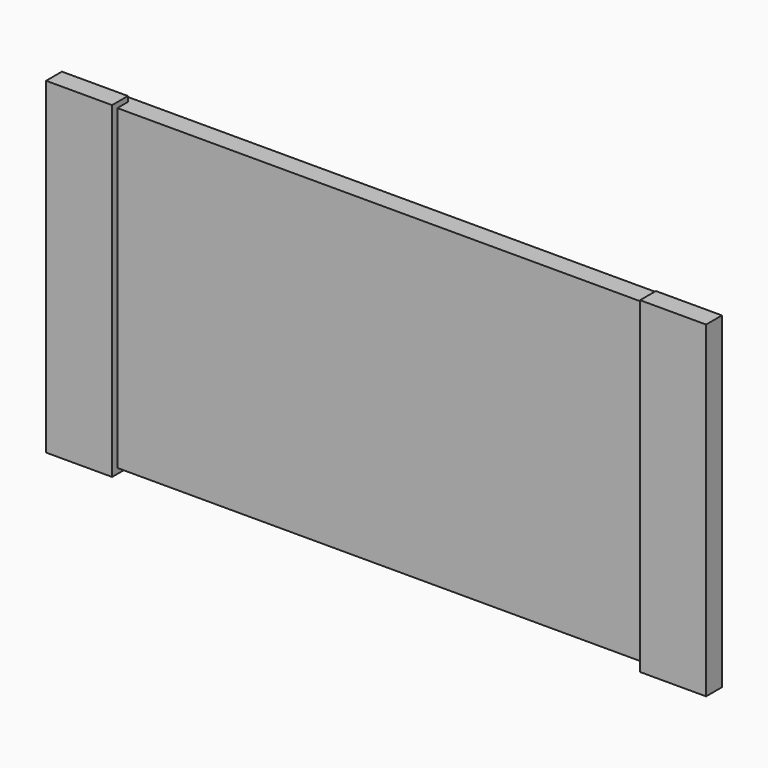
from build123d import *

# Parameters (mm, degrees)
F0_W          = 304.8
F0_H          = 152.4
F1_DEPTH      = 9.525
F2_W          = 25.4
F2_H          = 152.4
F3_DEPTH      = 6.35
F3_DEPTH_BACK = 3.175


with BuildPart() as f1:
    # F0 (on Front) → F1 (new body)
    with BuildSketch(Plane.XZ):
        Rectangle(F0_W, F0_H)
    extrude(amount=F1_DEPTH)


with BuildPart() as f3:
    # F2 (on face) → F3 (new body, two sides)
    with BuildSketch(Plane.XZ.offset(9.525)) as f3_sk:
        Polygon((-127, 78.74), (-158.75, 78.74), (-158.75, -78.74), (-127, -78.74), (-127, -76.2), (-152.4, -76.2), (-152.4, 76.2), (-127, 76.2), align=None)
        with Locations((-139.7, 0)):
            Rectangle(F2_W, F2_H)
    extrude(amount=-F3_DEPTH)
    extrude(f3_sk.sketch, amount=F3_DEPTH_BACK)


with BuildPart() as f3b:
    # F2 (on face) → F3, piece 2 (new body, two sides)
    with BuildSketch(Plane.XZ.offset(9.525)) as f3_2_sk:
        with Locations((139.7, 0)):
            Rectangle(F2_W, F2_H)
        Polygon((127, 78.74), (127, 76.2), (152.4, 76.2), (152.4, -76.2), (127, -76.2), (127, -78.74), (158.75, -78.74), (158.75, 78.74), align=None)
    extrude(amount=-F3_DEPTH)
    extrude(f3_2_sk.sketch, amount=F3_DEPTH_BACK)


with BuildPart() as f1_1:
    add(f1.part)

    # F4: cut F3, F3b
    add(f3.part, mode=Mode.SUBTRACT)
    add(f3b.part, mode=Mode.SUBTRACT)


solid = Compound([f3.part, f3b.part, f1_1.part])
